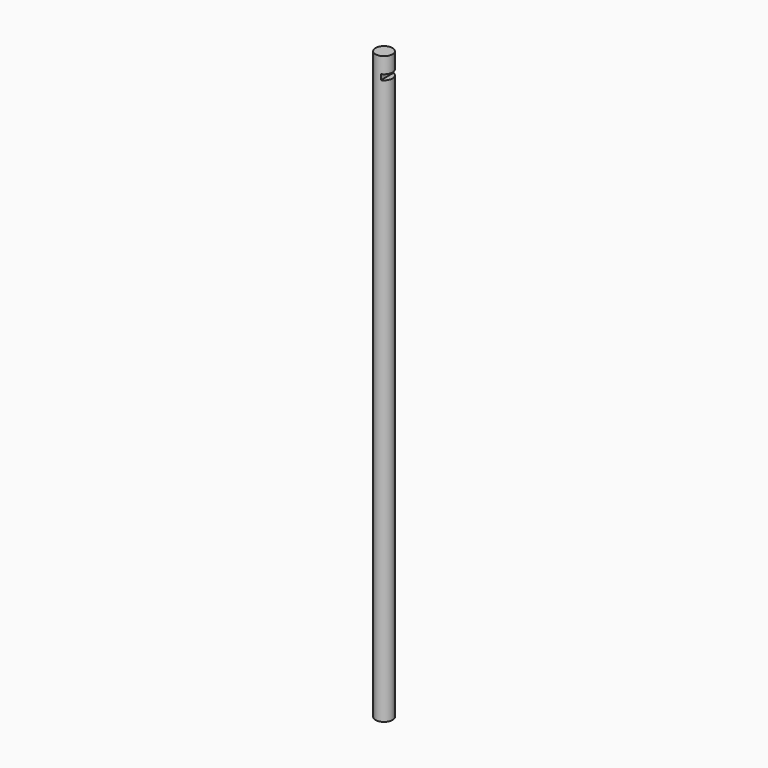
from build123d import *

# Parameters (mm, degrees)
F0_R     = 8
F1_DEPTH = 550
F2_W     = 5
F2_H     = 5
F3_DEPTH = 30


with BuildPart() as f1:
    # F0 (on Top) → F1 (new body)
    with BuildSketch(Plane.XY):
        Circle(F0_R)
    extrude(amount=F1_DEPTH)

    # F2 (on Front) → F3 (cut, symmetric)
    with BuildSketch(Plane.XZ):
        with Locations((5.5, 532.5)):
            Rectangle(F2_W, F2_H)
    extrude(amount=F3_DEPTH, both=True, mode=Mode.SUBTRACT)


solid = f1.part
